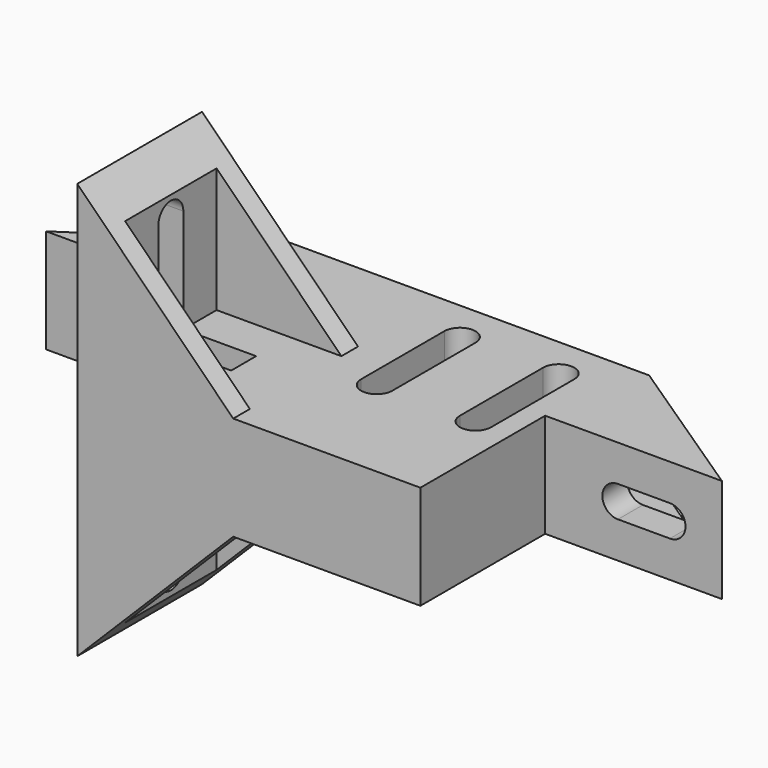
from build123d import *

# Parameters (mm, degrees)
PAD015_DEPTH    = 10
PAD016_DEPTH    = 15
SKETCH104_W     = 17.509207
SKETCH104_H     = 6
SKETCH104_W_2   = 32.035683
POCKET034_DEPTH = 7
POCKET035_DEPTH = 5
FILLET011_R     = 3
SKETCH106_W     = 11
SKETCH106_H     = 13
POCKET036_DEPTH = 32
POCKET037_DEPTH = 10
SKETCH108_W     = 15
SKETCH108_H     = 10
POCKET038_DEPTH = 2


with BuildPart() as part:
    # Sketch102 → Pad015 (new body)
    with BuildSketch(Plane.XY):
        Polygon((0, 0), (0, 15), (15, 15), (0, 25), (-35, 25), (-50, 15), (-35, 15), (-35, 0), align=None)
        with BuildLine():
            ThreePointArc((-4, 21), (-5.5, 22.5), (-7, 21))
            Line((-7, 21), (-7, 11))
            ThreePointArc((-7, 11), (-5.5, 9.5), (-4, 11))
            Line((-4, 21), (-4, 11))
        make_face(mode=Mode.SUBTRACT)
        with BuildLine():
            ThreePointArc((-13.5, 21), (-15, 22.5), (-16.5, 21))
            Line((-16.5, 21), (-16.5, 11))
            ThreePointArc((-16.5, 11), (-15, 9.5), (-13.5, 11))
            Line((-13.5, 21), (-13.5, 11))
        make_face(mode=Mode.SUBTRACT)
    extrude(amount=PAD015_DEPTH)

    # Sketch103 (on Face2 of Pad015) → Pad016 (join)
    with BuildSketch(Plane.XZ):
        Polygon((-35, 10), (-35, 25), (-20, 10), align=None)
        Polygon((-20, 0), (-35, 0), (-35, -15), align=None)
    extrude(amount=-PAD016_DEPTH)

    # Sketch104 (on Face10 of Pad016) → Pocket034 (cut)
    with BuildSketch(Plane(origin=(0, 25, 0), x_dir=(-1, 0, 0), z_dir=(0, 1, 0))):
        with Locations((-8.754603, 5)):
            Rectangle(SKETCH104_W, SKETCH104_H)
        with Locations((36.017842, 5)):
            Rectangle(SKETCH104_W_2, SKETCH104_H)
    extrude(amount=-POCKET034_DEPTH, mode=Mode.SUBTRACT)

    # Sketch105 (on Face1 of Pocket034) → Pocket035 (cut)
    with BuildSketch(Plane.XZ.offset(-15)):
        with BuildLine():
            ThreePointArc((10, 3.5), (11.5, 5), (10, 6.5))
            Line((10, 6.5), (5, 6.5))
            ThreePointArc((5, 6.5), (3.5, 5), (5, 3.5))
            Line((10, 3.5), (5, 3.5))
        make_face()
        with BuildLine():
            ThreePointArc((-45, 6.5), (-46.5, 5), (-45, 3.5))
            Line((-45, 3.5), (-40, 3.5))
            ThreePointArc((-40, 3.5), (-38.5, 5), (-40, 6.5))
            Line((-45, 6.5), (-40, 6.5))
        make_face()
    extrude(amount=-POCKET035_DEPTH, mode=Mode.SUBTRACT)

    # Fillet011
    fillet011_edges = [part.edges().sort_by_distance(p)[0] for p in [
        (-20, 18, 5),
        (0, 18, 5),
    ]]
    fillet(fillet011_edges, radius=FILLET011_R)

    # Sketch106 (on Face18 of Fillet011) → Pocket036 (cut)
    with BuildSketch(Plane.YZ):
        with Locations((7.5, 16.5)):
            Rectangle(SKETCH106_W, SKETCH106_H)
        with Locations((7.5, -6.5)):
            Rectangle(SKETCH106_W, SKETCH106_H)
    extrude(amount=-POCKET036_DEPTH, mode=Mode.SUBTRACT)

    # Sketch107 (on Face17 of Pocket036) → Pocket037 (cut)
    with BuildSketch(Plane(origin=(-35, 0, 0), x_dir=(0, -1, 0), z_dir=(-1, 0, 0))):
        with BuildLine():
            ThreePointArc((-6, 20), (-7.5, 21.5), (-9, 20))
            Line((-9, 20), (-9, -10))
            ThreePointArc((-9, -10), (-7.5, -11.5), (-6, -10))
            Line((-6, 20), (-6, -10))
        make_face()
    extrude(amount=-POCKET037_DEPTH, mode=Mode.SUBTRACT)

    # Sketch108 (on Face26 of Pocket037) → Pocket038 (cut)
    with BuildSketch(Plane.YZ):
        with Locations((7.5, 5)):
            Rectangle(SKETCH108_W, SKETCH108_H)
    extrude(amount=-POCKET038_DEPTH, mode=Mode.SUBTRACT)


with BuildPart() as part_1:
    # Body008 placement: moved
    add(part.part.moved(Location((-38, -112, 32))))


solid = part_1.part
